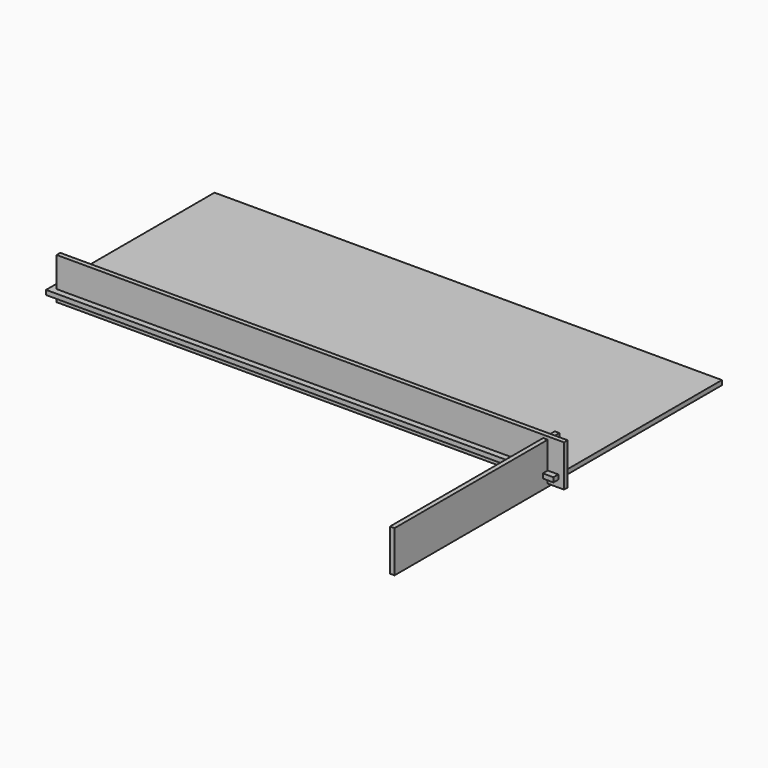
from build123d import *

# Parameters (mm, degrees)
F0_W     = 2000
F0_H     = 830
F1_DEPTH = 18
F2_W     = 2000
F2_H     = 164
F3_DEPTH = 18
F4_W     = 812
F4_H     = 164
F5_DEPTH = 18


with BuildPart() as f1:
    # F0 (on Top) → F1 (new body)
    with BuildSketch(Plane.XY):
        with Locations((-940.03024, 372.812499)):
            Rectangle(F0_W, F0_H)
    extrude(amount=F1_DEPTH)


with BuildPart() as f3:
    # F2 (on Front) → F3 (new body)
    with BuildSketch(Plane.XZ):
        with Locations((-917.71169, 54.510081)):
            Rectangle(F2_W, F2_H)
    extrude(amount=F3_DEPTH)


with BuildPart() as f5:
    # F4 (on Right) → F5 (new body)
    with BuildSketch(Plane.YZ):
        with Locations((-366.752011, 42.897177)):
            Rectangle(F4_W, F4_H)
    extrude(amount=F5_DEPTH)


solid = Compound([f1.part, f3.part, f5.part])
